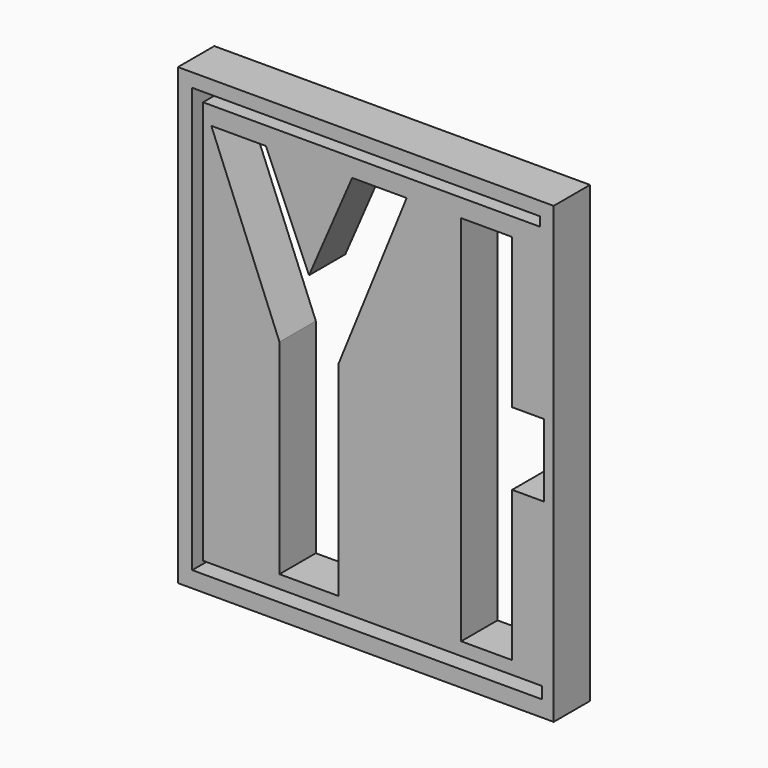
from build123d import *

# Parameters (mm, degrees)
F0_W     = 0.0762
F0_H     = 0.0762
F1_DEPTH = 0.254


with BuildPart() as f1:
    # F0 (on Front) → F1 (new body)
    with BuildSketch(Plane.XZ):
        with Locations((2.505707, 2.5019)):
            Rectangle(F0_W, F0_H)
        Polygon((0.443168, 0), (2.543807, 0), (2.543807, 2.4638), (2.467607, 2.4638), (2.467607, 2.54), (0.443168, 2.54), align=None)
        Polygon((1.340803, 0.2286), (1.010603, 0.2286), (1.010603, 1.3716), (0.629603, 2.3114), (0.934403, 2.3114), (1.175703, 1.753394), (1.417003, 2.3114), (1.721803, 2.3114), (1.340803, 1.3716), align=None, mode=Mode.SUBTRACT)
        Polygon((2.026603, 2.3114), (2.3114, 2.3114), (2.3114, 1.4732), (2.4892, 1.4732), (2.4892, 1.0668), (2.3114, 1.0668), (2.3114, 0.2286), (2.026603, 0.2286), align=None, mode=Mode.SUBTRACT)
        Polygon((0.523031, 2.4638), (2.467607, 2.4638), (2.467607, 2.412301), (0.583308, 2.412301), (0.583308, 0.15577), (2.479824, 0.15577), (2.479824, 0.089892), (0.583308, 0.089892), (0.523031, 0.089892), align=None, mode=Mode.SUBTRACT)
    extrude(amount=F1_DEPTH)


solid = f1.part
